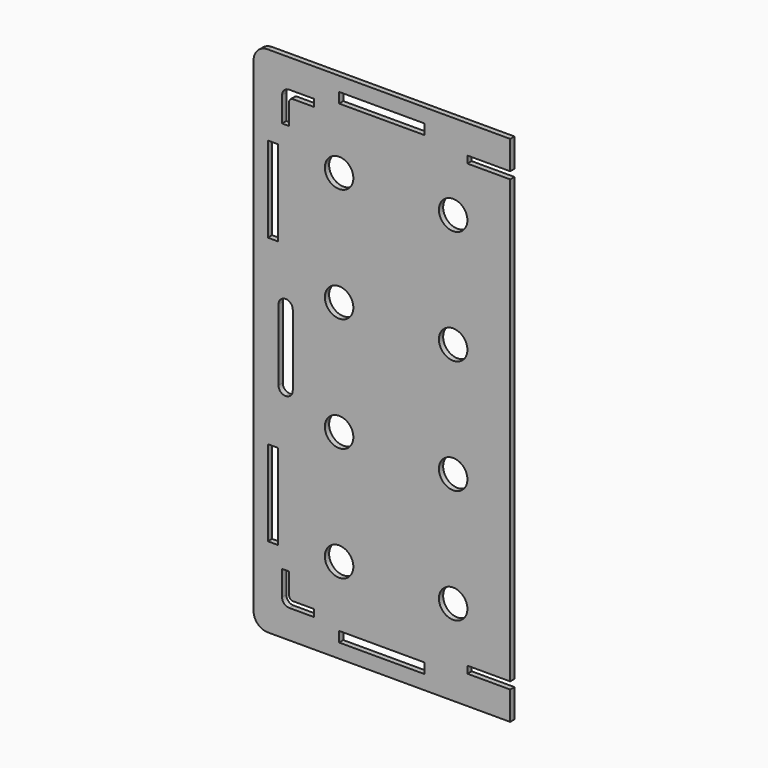
from build123d import *

# Parameters (mm, degrees)
F1_DEPTH = 4.7625
F2_W     = 76.2
F2_H     = 9.144
F2_R     = 12.7
F2_W_2   = 9.144
F2_H_2   = 76.2
F2_W_3   = 38.1
F2_H_3   = 6.35
F3_DEPTH = 4.7635


with BuildPart() as f1:
    # F0 (on Front) → F1 (new body)
    with BuildSketch(Plane.XZ):
        with BuildLine():
            Line((-101.6, -228.6), (114.3, -228.6))
            Line((114.3, -228.6), (114.3, 228.6))
            Line((114.3, 228.6), (-101.6, 228.6))
            ThreePointArc((-101.6, 228.6), (-110.580256, 224.880256), (-114.3, 215.9))
            Line((-114.3, 215.9), (-114.3, -215.9))
            ThreePointArc((-114.3, -215.9), (-110.580256, -224.880256), (-101.6, -228.6))
        make_face()
    extrude(amount=F1_DEPTH)

    # F2 (on face) → F3 (cut, through all)
    with BuildSketch(Plane.XZ.offset(4.7625)):
        with Locations((0, -211.328)):
            Rectangle(F2_W, F2_H)
        with Locations((-38.1, 152.4)):
            Circle(F2_R)
        with Locations((-38.1, 50.8)):
            Circle(F2_R)
        with Locations((63.5, 152.4)):
            Circle(F2_R)
        with Locations((63.5, 50.8)):
            Circle(F2_R)
        with Locations((-97.028, -119.0625)):
            Rectangle(F2_W_2, F2_H_2)
        with Locations((95.25, -200.025)):
            Rectangle(F2_W_3, F2_H_3)
        with BuildLine():
            ThreePointArc((-88.9, -196.85), (-87.040128, -201.340128), (-82.55, -203.2))
            Line((-82.55, -203.2), (-60.325, -203.2))
            Line((-60.325, -203.2), (-60.325, -196.85))
            Line((-60.325, -196.85), (-79.375, -196.85))
            ThreePointArc((-79.375, -196.85), (-81.620064, -195.920064), (-82.55, -193.675))
            Line((-82.55, -193.675), (-82.55, -174.625))
            Line((-82.55, -174.625), (-88.9, -174.625))
            Line((-88.9, -174.625), (-88.9, -196.85))
        make_face()
        with Locations((-38.1, -50.8)):
            Circle(F2_R)
        with Locations((63.5, -50.8)):
            Circle(F2_R)
        with Locations((-38.1, -152.4)):
            Circle(F2_R)
        with Locations((63.5, -152.4)):
            Circle(F2_R)
        with BuildLine():
            ThreePointArc((-85.725, -38.1), (-81.234872, -36.240128), (-79.375, -31.75))
            Line((-79.375, -31.75), (-79.375, 31.75))
            ThreePointArc((-79.375, 31.75), (-81.234872, 36.240128), (-85.725, 38.1))
            ThreePointArc((-85.725, 38.1), (-90.215128, 36.240128), (-92.075, 31.75))
            Line((-92.075, 31.75), (-92.075, -31.75))
            ThreePointArc((-92.075, -31.75), (-90.215128, -36.240128), (-85.725, -38.1))
        make_face()
        with Locations((-97.028, 119.0625)):
            Rectangle(F2_W_2, F2_H_2)
        with Locations((95.25, 200.025)):
            Rectangle(F2_W_3, F2_H_3)
        with Locations((0, 211.328)):
            Rectangle(F2_W, F2_H)
        with BuildLine():
            Line((-82.55, 174.625), (-82.55, 193.675))
            ThreePointArc((-82.55, 193.675), (-81.620064, 195.920064), (-79.375, 196.85))
            Line((-79.375, 196.85), (-60.325, 196.85))
            Line((-60.325, 196.85), (-60.325, 203.2))
            Line((-60.325, 203.2), (-82.55, 203.2))
            ThreePointArc((-82.55, 203.2), (-87.040128, 201.340128), (-88.9, 196.85))
            Line((-88.9, 196.85), (-88.9, 174.625))
            Line((-88.9, 174.625), (-82.55, 174.625))
        make_face()
    extrude(amount=-F3_DEPTH, mode=Mode.SUBTRACT)


solid = f1.part
